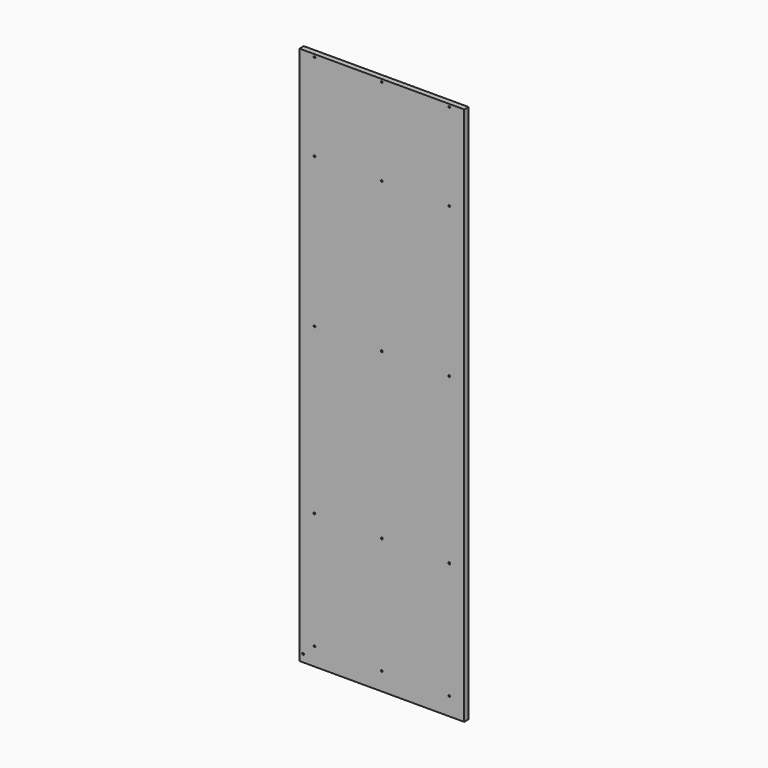
from build123d import *

# Parameters (mm, degrees)
F0_W     = 550
F0_H     = 1800
F0_R     = 3
F1_DEPTH = 18


with BuildPart() as f1:
    # F0 (on Front) → F1 (new body)
    with BuildSketch(Plane.XZ):
        with Locations((275, 900)):
            Rectangle(F0_W, F0_H)
        with Locations((12, 25)):
            Circle(F0_R, mode=Mode.SUBTRACT)
        with Locations((50, 60)):
            Circle(F0_R, mode=Mode.SUBTRACT)
        with Locations((50, 450)):
            Circle(F0_R, mode=Mode.SUBTRACT)
        with Locations((275, 60)):
            Circle(F0_R, mode=Mode.SUBTRACT)
        with Locations((500, 60)):
            Circle(F0_R, mode=Mode.SUBTRACT)
        with Locations((275, 450)):
            Circle(F0_R, mode=Mode.SUBTRACT)
        with Locations((500, 450)):
            Circle(F0_R, mode=Mode.SUBTRACT)
        with Locations((50, 1000)):
            Circle(F0_R, mode=Mode.SUBTRACT)
        with Locations((50, 1500)):
            Circle(F0_R, mode=Mode.SUBTRACT)
        with Locations((50, 1791)):
            Circle(F0_R, mode=Mode.SUBTRACT)
        with Locations((275, 1000)):
            Circle(F0_R, mode=Mode.SUBTRACT)
        with Locations((500, 1000)):
            Circle(F0_R, mode=Mode.SUBTRACT)
        with Locations((275, 1500)):
            Circle(F0_R, mode=Mode.SUBTRACT)
        with Locations((275, 1791)):
            Circle(F0_R, mode=Mode.SUBTRACT)
        with Locations((500, 1500)):
            Circle(F0_R, mode=Mode.SUBTRACT)
        with Locations((500, 1791)):
            Circle(F0_R, mode=Mode.SUBTRACT)
    extrude(amount=F1_DEPTH)


solid = f1.part
